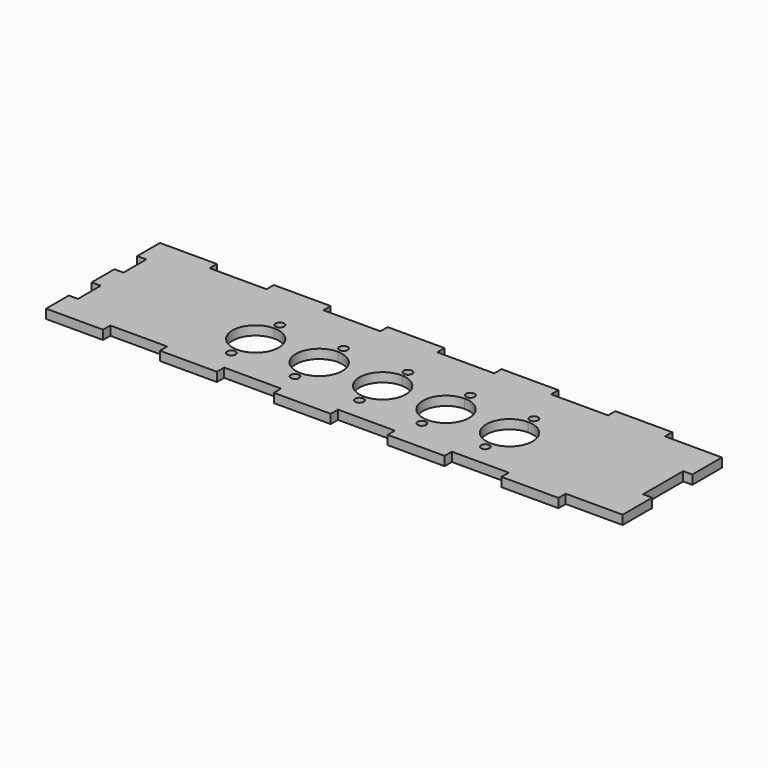
from build123d import *

# Parameters (mm, degrees)
F1_DEPTH = 3.2


with BuildPart() as f1:
    # F0 (on Top) → F1 (new body)
    with BuildSketch(Plane.XY):
        Polygon((-40, 28.15), (-60, 28.15), (-60, 18.15), (-56.8, 18.15), (-56.8, 8.15), (-60, 8.15), (-60, -1.85), (-56.8, -1.85), (-56.8, -11.85), (-60, -11.85), (-60, -21.85), (-40, -21.85), (-40, -18.65), (-20, -18.65), (-20, -21.85), (0, -21.85), (0, -18.65), (20, -18.65), (20, -21.85), (40, -21.85), (40, -18.65), (60, -18.65), (60, -21.85), (80, -21.85), (80, -18.65), (100, -18.65), (100, -21.85), (120, -21.85), (120, -18.65), (140, -18.65), (140, -5.65), (136.8, -5.65), (136.8, 11.95), (140, 11.95), (140, 24.95), (120, 24.95), (120, 28.15), (100, 28.15), (100, 24.95), (80, 24.95), (80, 28.15), (60, 28.15), (60, 24.95), (40, 24.95), (40, 28.15), (20, 28.15), (20, 24.95), (0, 24.95), (0, 28.15), (-20, 28.15), (-20, 24.95), (-40, 24.95), align=None)
        with BuildLine():
            ThreePointArc((-2.35, -10.65), (-4.9106601718, -11.7106601718), (-3.85, -9.15))
            ThreePointArc((-3.85, -9.15), (-2.7893398282, -9.5893398282), (-2.35, -10.65))
        make_face(mode=Mode.SUBTRACT)
        with BuildLine():
            ThreePointArc((19.9928815383, -10.6499136698), (17.4322213665, -11.7105738416), (18.4928815383, -9.1499136698))
            ThreePointArc((18.4928815383, -9.1499136698), (19.55354171, -9.589253498), (19.9928815383, -10.6499136698))
        make_face(mode=Mode.SUBTRACT)
        with BuildLine():
            ThreePointArc((-3.85, 8.15), (1.9129202667, 5.7629202667), (4.3, 0))
            ThreePointArc((4.3, 0), (1.9129202667, -5.7629202667), (-3.85, -8.15))
            ThreePointArc((-3.85, -8.15), (-12, 0), (-3.85, 8.15))
        make_face(mode=Mode.SUBTRACT)
        with BuildLine():
            ThreePointArc((18.4928815383, 8.1498871878), (24.2280612898, 5.7477393584), (26.6, 0))
            ThreePointArc((26.6, 0), (24.2280612898, -5.7477393584), (18.4928815383, -8.1498871878))
            ThreePointArc((18.4928815383, -8.1498871878), (10.3, 0), (18.4928815383, 8.1498871878))
        make_face(mode=Mode.SUBTRACT)
        with BuildLine():
            ThreePointArc((42.6330092816, -10.6431106304), (40.0723491098, -11.7037708021), (41.1330092816, -9.1431106304))
            ThreePointArc((41.1330092816, -9.1431106304), (42.1936694534, -9.5824504586), (42.6330092816, -10.6431106304))
        make_face(mode=Mode.SUBTRACT)
        with BuildLine():
            ThreePointArc((64.55, -10.65), (61.9893398282, -11.7106601718), (63.05, -9.15))
            ThreePointArc((63.05, -9.15), (64.1106601718, -9.5893398282), (64.55, -10.65))
        make_face(mode=Mode.SUBTRACT)
        with BuildLine():
            ThreePointArc((86.8551553416, -10.6499987522), (84.2944951698, -11.710658924), (85.3551553416, -9.1499987522))
            ThreePointArc((85.3551553416, -9.1499987522), (86.4158155134, -9.5893385804), (86.8551553416, -10.6499987522))
        make_face(mode=Mode.SUBTRACT)
        with BuildLine():
            ThreePointArc((41.1330092816, 8.1409952641), (46.6467798689, 5.6258765697), (48.9, 0))
            ThreePointArc((48.9, 0), (46.6467798689, -5.6258765697), (41.1330092816, -8.1409952641))
            ThreePointArc((41.1330092816, -8.1409952641), (32.6, 0), (41.1330092816, 8.1409952641))
        make_face(mode=Mode.SUBTRACT)
        with BuildLine():
            ThreePointArc((63.05, 8.15), (68.8129202667, 5.7629202667), (71.2, 0))
            ThreePointArc((71.2, 0), (68.8129202667, -5.7629202667), (63.05, -8.15))
            ThreePointArc((63.05, -8.15), (54.9, 0), (63.05, 8.15))
        make_face(mode=Mode.SUBTRACT)
        with BuildLine():
            ThreePointArc((85.3551553416, 8.1499983695), (91.114742667, 5.7610972898), (93.5, 0))
            ThreePointArc((93.5, 0), (91.114742667, -5.7610972898), (85.3551553416, -8.1499983695))
            ThreePointArc((85.3551553416, -8.1499983695), (77.2, 0), (85.3551553416, 8.1499983695))
        make_face(mode=Mode.SUBTRACT)
        with BuildLine():
            ThreePointArc((-2.35, 10.65), (-2.7893398282, 9.5893398282), (-3.85, 9.15))
            ThreePointArc((-3.85, 9.15), (-4.9106601718, 11.7106601718), (-2.35, 10.65))
        make_face(mode=Mode.SUBTRACT)
        with BuildLine():
            ThreePointArc((19.9928815383, 10.6499136698), (19.55354171, 9.589253498), (18.4928815383, 9.1499136698))
            ThreePointArc((18.4928815383, 9.1499136698), (17.4322213665, 11.7105738416), (19.9928815383, 10.6499136698))
        make_face(mode=Mode.SUBTRACT)
        with BuildLine():
            ThreePointArc((42.6330092816, 10.6431106304), (42.1936694534, 9.5824504586), (41.1330092816, 9.1431106304))
            ThreePointArc((41.1330092816, 9.1431106304), (40.0723491098, 11.7037708021), (42.6330092816, 10.6431106304))
        make_face(mode=Mode.SUBTRACT)
        with BuildLine():
            ThreePointArc((64.55, 10.65), (64.1106601718, 9.5893398282), (63.05, 9.15))
            ThreePointArc((63.05, 9.15), (61.9893398282, 11.7106601718), (64.55, 10.65))
        make_face(mode=Mode.SUBTRACT)
        with BuildLine():
            ThreePointArc((86.8551553416, 10.6499987522), (86.4158155134, 9.5893385804), (85.3551553416, 9.1499987522))
            ThreePointArc((85.3551553416, 9.1499987522), (84.2944951698, 11.710658924), (86.8551553416, 10.6499987522))
        make_face(mode=Mode.SUBTRACT)
    extrude(amount=F1_DEPTH)


solid = f1.part
